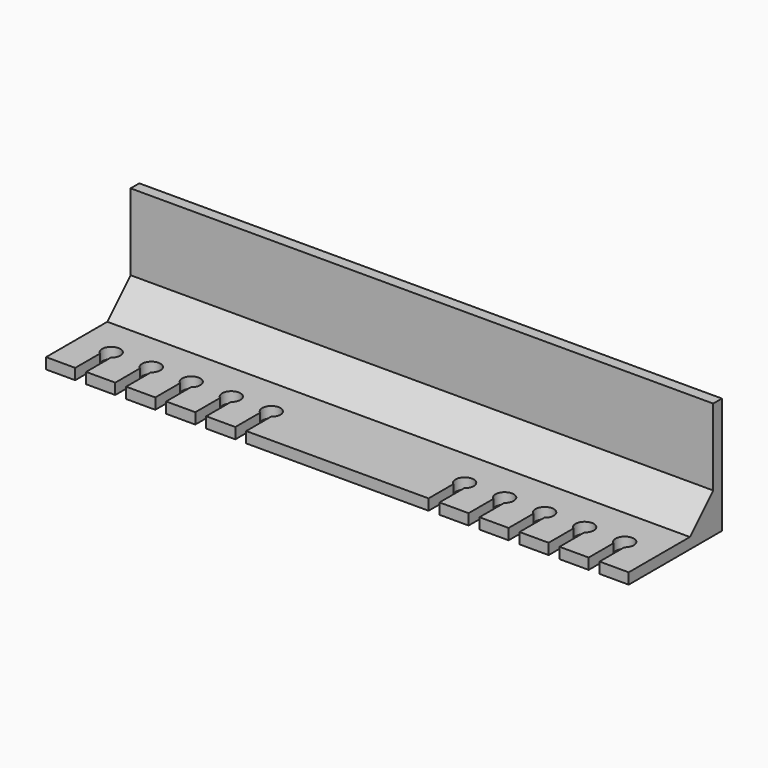
from build123d import *

# Parameters (mm, degrees)
F1_DEPTH = 254
F3_DEPTH = 25.4


with BuildPart() as f1:
    # F0 (on Right) → F1 (new body)
    with BuildSketch(Plane.YZ):
        Polygon((4.7498, 46.0502), (0, 46.0502), (0, 12.7), (-12.7, 0), (-46.0502, 0), (-46.0502, -4.7498), (4.7498, -4.7498), align=None)
    extrude(amount=F1_DEPTH)

    # F2 (on face) → F3 (cut)
    with BuildSketch(Plane.XY):
        with BuildLine():
            Line((12.7, -33.3502), (12.7, -46.0502))
            Line((12.7, -46.0502), (17.4498, -46.0502))
            Line((17.4498, -46.0502), (17.4498, -33.3502))
            Line((17.4498, -33.3502), (17.4498, -32.561203))
            ThreePointArc((17.4498, -32.561203), (15.0749, -25.4127), (12.7, -32.561203))
            Line((12.7, -32.561203), (12.7, -33.3502))
        make_face()
        with BuildLine():
            Line((30.1498, -33.3502), (30.1498, -46.0502))
            Line((30.1498, -46.0502), (34.8996, -46.0502))
            Line((34.8996, -46.0502), (34.8996, -33.3502))
            Line((34.8996, -33.3502), (34.8996, -32.561203))
            ThreePointArc((34.8996, -32.561203), (32.5247, -25.4127), (30.1498, -32.561203))
            Line((30.1498, -32.561203), (30.1498, -33.3502))
        make_face()
        with BuildLine():
            Line((47.5996, -33.3502), (47.5996, -46.0502))
            Line((47.5996, -46.0502), (52.3494, -46.0502))
            Line((52.3494, -46.0502), (52.3494, -33.3502))
            Line((52.3494, -33.3502), (52.3494, -32.561203))
            ThreePointArc((52.3494, -32.561203), (49.9745, -25.4127), (47.5996, -32.561203))
            Line((47.5996, -32.561203), (47.5996, -33.3502))
        make_face()
        with BuildLine():
            Line((65.0494, -33.3502), (65.0494, -46.0502))
            Line((65.0494, -46.0502), (69.7992, -46.0502))
            Line((69.7992, -46.0502), (69.7992, -33.3502))
            Line((69.7992, -33.3502), (69.7992, -32.561203))
            ThreePointArc((69.7992, -32.561203), (67.4243, -25.4127), (65.0494, -32.561203))
            Line((65.0494, -32.561203), (65.0494, -33.3502))
        make_face()
        with BuildLine():
            Line((82.4992, -33.3502), (82.4992, -46.0502))
            Line((82.4992, -46.0502), (87.249, -46.0502))
            Line((87.249, -46.0502), (87.249, -33.3502))
            Line((87.249, -33.3502), (87.249, -32.561203))
            ThreePointArc((87.249, -32.561203), (84.8741, -25.4127), (82.4992, -32.561203))
            Line((82.4992, -32.561203), (82.4992, -33.3502))
        make_face()
        with BuildLine():
            Line((166.751, -33.3502), (166.751, -46.0502))
            Line((166.751, -46.0502), (171.5008, -46.0502))
            Line((171.5008, -46.0502), (171.5008, -33.3502))
            Line((171.5008, -33.3502), (171.5008, -32.561203))
            ThreePointArc((171.5008, -32.561203), (169.1259, -25.4127), (166.751, -32.561203))
            Line((166.751, -32.561203), (166.751, -33.3502))
        make_face()
        with BuildLine():
            Line((184.2008, -33.3502), (184.2008, -46.0502))
            Line((184.2008, -46.0502), (188.9506, -46.0502))
            Line((188.9506, -46.0502), (188.9506, -33.3502))
            Line((188.9506, -33.3502), (188.9506, -32.561203))
            ThreePointArc((188.9506, -32.561203), (186.5757, -25.4127), (184.2008, -32.561203))
            Line((184.2008, -32.561203), (184.2008, -33.3502))
        make_face()
        with BuildLine():
            Line((201.6506, -33.3502), (201.6506, -46.0502))
            Line((201.6506, -46.0502), (206.4004, -46.0502))
            Line((206.4004, -46.0502), (206.4004, -33.3502))
            Line((206.4004, -33.3502), (206.4004, -32.561203))
            ThreePointArc((206.4004, -32.561203), (204.0255, -25.4127), (201.6506, -32.561203))
            Line((201.6506, -32.561203), (201.6506, -33.3502))
        make_face()
        with BuildLine():
            Line((219.1004, -33.3502), (219.1004, -46.0502))
            Line((219.1004, -46.0502), (223.8502, -46.0502))
            Line((223.8502, -46.0502), (223.8502, -33.3502))
            Line((223.8502, -33.3502), (223.8502, -32.561203))
            ThreePointArc((223.8502, -32.561203), (221.4753, -25.4127), (219.1004, -32.561203))
            Line((219.1004, -32.561203), (219.1004, -33.3502))
        make_face()
        with BuildLine():
            Line((236.5502, -33.3502), (236.5502, -46.0502))
            Line((236.5502, -46.0502), (241.3, -46.0502))
            Line((241.3, -46.0502), (241.3, -33.3502))
            Line((241.3, -33.3502), (241.3, -32.561203))
            ThreePointArc((241.3, -32.561203), (238.9251, -25.4127), (236.5502, -32.561203))
            Line((236.5502, -32.561203), (236.5502, -33.3502))
        make_face()
    extrude(amount=-F3_DEPTH, mode=Mode.SUBTRACT)


solid = f1.part
